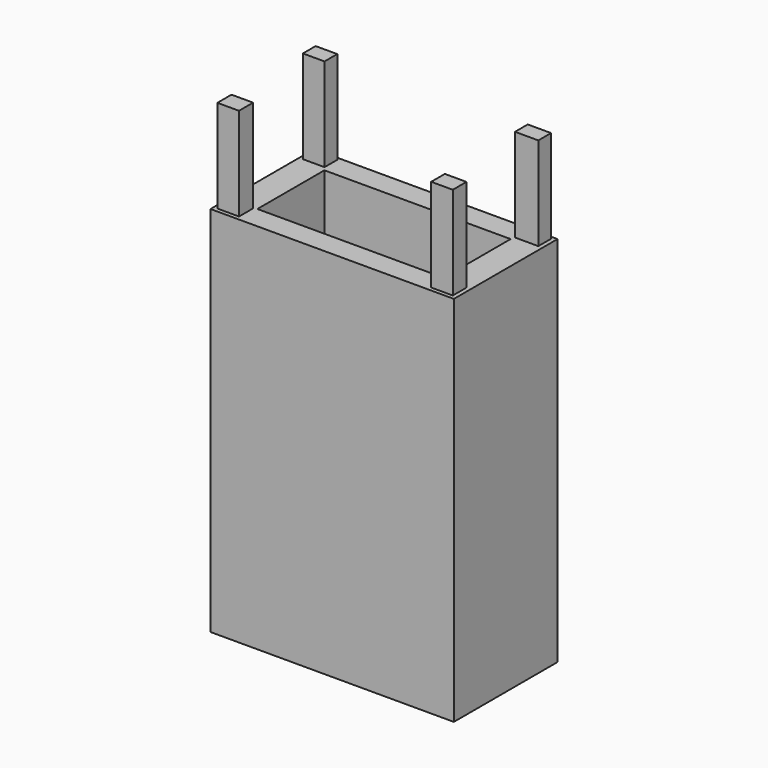
from build123d import *

# Parameters (mm, degrees)
F0_W     = 13.070496
F0_H     = 6.95969
F0_W_2   = 10
F0_H_2   = 4.5
F1_DEPTH = 20
F2_W     = 1.160451
F2_H     = 0.855069
F2_H_2   = 0.946683
F2_W_2   = 1.16045
F2_H_3   = 0.916145
F2_W_3   = 1.252065
F3_DEPTH = 25


with BuildPart() as f1:
    # F0 (on Top) → F1 (new body)
    with BuildSketch(Plane.XY):
        Rectangle(F0_W, F0_H)
        Rectangle(F0_W_2, F0_H_2, mode=Mode.SUBTRACT)
    extrude(amount=F1_DEPTH)

    # F2 (on Top) → F3 (join)
    with BuildSketch(Plane.XY):
        with Locations((-5.753769, 2.901054)):
            Rectangle(F2_W, F2_H)
        with Locations((-5.753769, -2.794314)):
            Rectangle(F2_W, F2_H_2)
        with Locations((5.728582, -2.809583)):
            Rectangle(F2_W_2, F2_H_3)
        with Locations((5.682774, 2.901054)):
            Rectangle(F2_W_3, F2_H)
    extrude(amount=F3_DEPTH)


solid = f1.part
